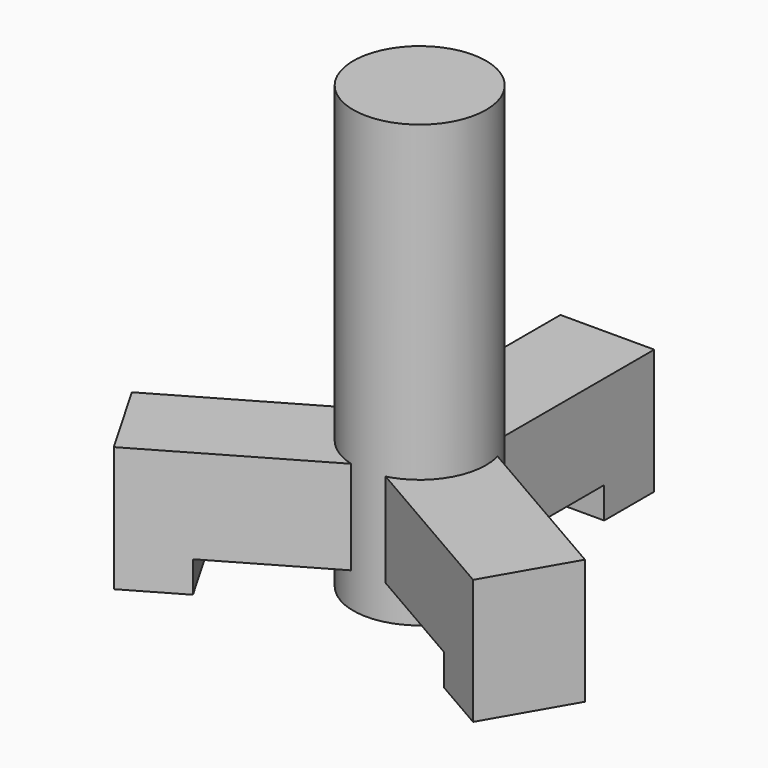
from build123d import *

# Parameters (mm, degrees)
F0_W          = 3
F0_H          = 7.5
F1_DEPTH      = 3
F2_W          = 3
F2_H          = 2
F3_DEPTH      = 1
F5_COUNT      = 3
F6_R          = 2.124449
F7_DEPTH      = 10
F7_DEPTH_BACK = 4.10005


with BuildPart() as f1:
    # F0 (on Top) → F1 (new body)
    with BuildSketch(Plane.XY):
        with Locations((0, 3.75)):
            Rectangle(F0_W, F0_H)
    extrude(amount=F1_DEPTH)

    # F2 (on face) → F3 (join)
    with BuildSketch(Plane(origin=(0, 0, 0), x_dir=(1, 0, 0), z_dir=(0, 0, -1))):
        with Locations((0, -6.5)):
            Rectangle(F2_W, F2_H)
    extrude(amount=F3_DEPTH)


with BuildPart() as f5_1:
    # F5: instance of F1
    add(f1.part.rotate(Axis((0, 0, 3.75), (0, 0, 1)), 1 * 360 / F5_COUNT))


with BuildPart() as f5_2:
    # F5: instance of F1
    add(f1.part.rotate(Axis((0, 0, 3.75), (0, 0, 1)), 2 * 360 / F5_COUNT))


with BuildPart() as f7:
    # F6 (on face) → F7 (new body, two sides)
    with BuildSketch(Plane.XY.offset(3)) as f7_sk:
        Circle(F6_R)
    extrude(amount=F7_DEPTH)
    extrude(f7_sk.sketch, amount=-F7_DEPTH_BACK)


solid = Compound([f1.part, f5_1.part, f5_2.part, f7.part])
